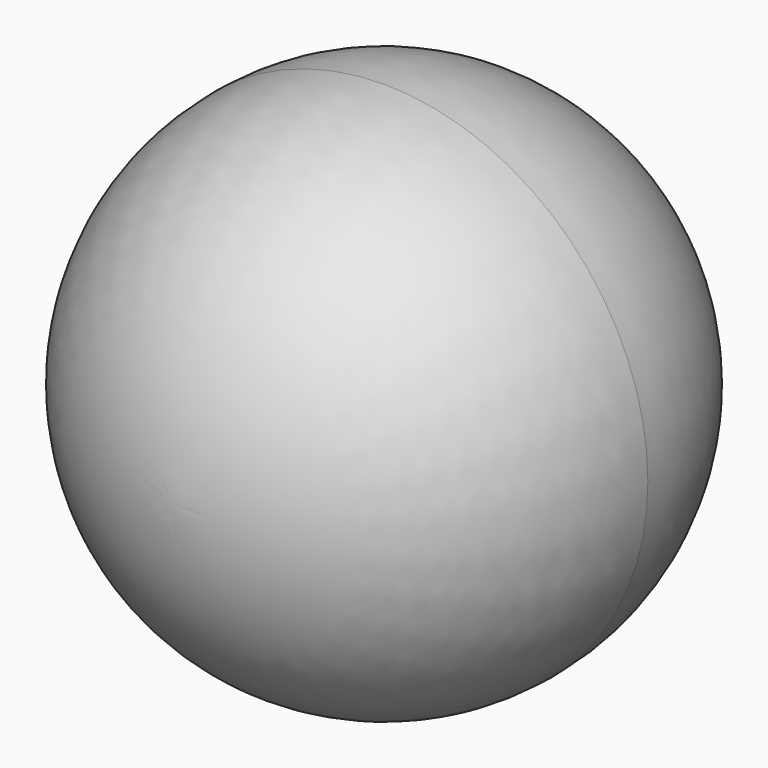
from build123d import *


with BuildPart() as f1:
    # F0 (on Top) → F1 (revolve)
    with BuildSketch(Plane.XY):
        with BuildLine():
            ThreePointArc((0, -2.5), (1.767767, -1.767767), (2.5, 0))
            ThreePointArc((2.5, 0), (1.767767, 1.767767), (0, 2.5))
            Line((0, 2.5), (0, 0))
            Line((0, 0), (0, -2.5))
        make_face()
    revolve(axis=Axis((0, -1.991528, 0), (0, -1, 0)))


solid = f1.part
